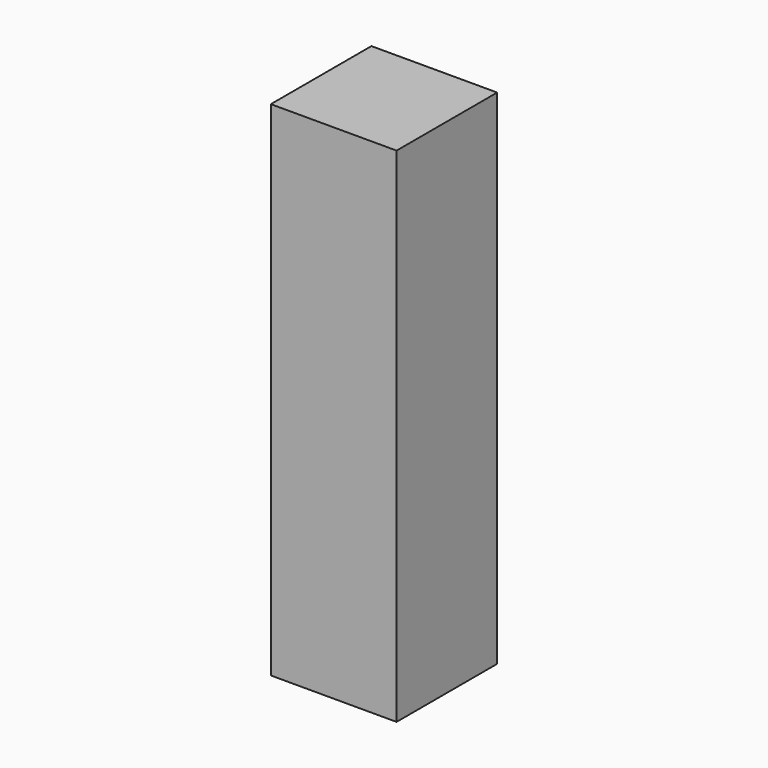
from build123d import *

# Parameters (mm, degrees)
SKETCH052_W     = 10
SKETCH052_H     = 10
PAD027_DEPTH    = 40
SKETCH053_R     = 1.3
POCKET002_DEPTH = 8
SKETCH054_R     = 1.3
POCKET003_DEPTH = 8


with BuildPart() as part:
    # Sketch052 → Pad027 (new body)
    with BuildSketch(Plane(origin=(0, 0, -60), x_dir=(1, 0, 0), z_dir=(0, 0, -1))):
        with Locations((-73, -10.5)):
            Rectangle(SKETCH052_W, SKETCH052_H)
    extrude(amount=-PAD027_DEPTH)

    # Sketch053 → Pocket002 (cut)
    with BuildSketch(Plane(origin=(0, 15.5, -60), x_dir=(1, 0, 0), z_dir=(0, 1, 0))):
        with Locations((-73, -5)):
            Circle(SKETCH053_R)
        with Locations((-73, -35)):
            Circle(SKETCH053_R)
    extrude(amount=-POCKET002_DEPTH, mode=Mode.SUBTRACT)

    # Sketch054 → Pocket003 (cut)
    with BuildSketch(Plane(origin=(-78, 0, -60), x_dir=(0, 1, 0), z_dir=(-1, 0, 0))):
        with Locations((10.5, -10)):
            Circle(SKETCH054_R)
        with Locations((10.5, -30)):
            Circle(SKETCH054_R)
    extrude(amount=-POCKET003_DEPTH, mode=Mode.SUBTRACT)


solid = part.part
